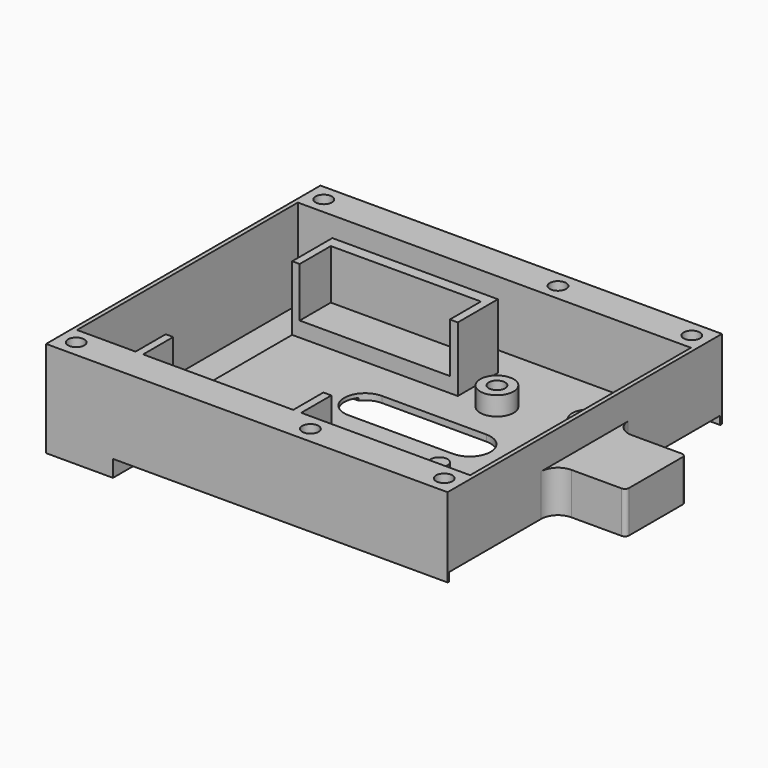
from build123d import *

# Parameters (mm, degrees)
PAD_DEPTH       = 41
POCKET_DEPTH    = 33
POCKET001_DEPTH = 1.5
SKETCH007_R     = 4
SKETCH007_R_2   = 1.95
SKETCH007_R_3   = 2
PAD005_DEPTH    = 6
SKETCH008_W     = 14
SKETCH008_H     = 10
POCKET002_DEPTH = 40
SKETCH013_R     = 1.95
POCKET003_DEPTH = 8
SKETCH018_W     = 39.6
SKETCH018_H     = 12
SKETCH018_H_2   = 9
PAD012_DEPTH    = 17
SKETCH019_W     = 35.9
SKETCH019_H     = 56.1
POCKET006_DEPTH = 11.9
SKETCH023_W     = 79.5
SKETCH023_H     = 6
POCKET007_DEPTH = 0.6
SKETCH024_W     = 80
SKETCH024_H     = 0.5
PAD016_DEPTH    = 2
PAD017_DEPTH    = 10
SKETCH026_W     = 8
SKETCH026_H     = 16
POCKET008_DEPTH = 16


with BuildPart() as part:
    # Sketch → Pad (new body, symmetric)
    with BuildSketch(Plane.XZ):
        Polygon((-48, 17), (-48, -6), (-32, -6), (-32, 0), (48, 0), (48, 17), align=None)
    extrude(amount=PAD_DEPTH, both=True)

    # Sketch001 → Pocket (cut, symmetric)
    with BuildSketch(Plane.XZ):
        Polygon((-33, 1.5), (47, 1.5), (47, 18.5), (-47, 18.5), (-47, -4.5), (-33, -4.5), align=None)
    extrude(amount=POCKET_DEPTH, both=True, mode=Mode.SUBTRACT)

    # Sketch004 → Pocket001 (cut)
    with BuildSketch(Plane.XY):
        with BuildLine():
            ThreePointArc((-4.5, 5), (-9.5, 0), (-4.5, -5))
            Line((-4.5, -5), (20.5, -5))
            ThreePointArc((20.5, -5), (25.5, 0), (20.5, 5))
            Line((20.5, 5), (-4.5, 5))
        make_face()
    extrude(amount=POCKET001_DEPTH, mode=Mode.SUBTRACT)

    # Sketch007 → Pad005 (join)
    with BuildSketch(Plane.XY):
        with Locations((15, 15)):
            Circle(SKETCH007_R)
        with Locations((15, 15)):
            Circle(SKETCH007_R_2, mode=Mode.SUBTRACT)
        with Locations((37, 15)):
            Circle(SKETCH007_R)
        with Locations((37, 15)):
            Circle(SKETCH007_R_2, mode=Mode.SUBTRACT)
        with Locations((26, -16)):
            Circle(SKETCH007_R_3)
    extrude(amount=PAD005_DEPTH)

    # Sketch008 → Pocket002 (cut, symmetric)
    with BuildSketch(Plane.XZ):
        with Locations((-40, 0.5)):
            Rectangle(SKETCH008_W, SKETCH008_H)
    extrude(amount=POCKET002_DEPTH, both=True, mode=Mode.SUBTRACT)

    # Sketch013 (on DatumPlane) → Pocket003 (cut)
    with BuildSketch(Plane.XY.offset(17)):
        with Locations((-44, 37)):
            Circle(SKETCH013_R)
        with Locations((12, 37)):
            Circle(SKETCH013_R)
        with Locations((44, 37)):
            Circle(SKETCH013_R)
        with Locations((44, -37)):
            Circle(SKETCH013_R)
        with Locations((12, -37)):
            Circle(SKETCH013_R)
        with Locations((-44, -37)):
            Circle(SKETCH013_R)
    extrude(amount=-POCKET003_DEPTH, mode=Mode.SUBTRACT)

    # Sketch018 → Pad012 (join)
    with BuildSketch(Plane.XY):
        with Locations((-13.2, 19.8)):
            Rectangle(SKETCH018_W, SKETCH018_H)
        with Locations((-13.2, -28.5)):
            Rectangle(SKETCH018_W, SKETCH018_H_2)
    extrude(amount=PAD012_DEPTH)

    # Sketch019 (on DatumPlane) → Pocket006 (cut)
    with BuildSketch(Plane.XY.offset(17)):
        with Locations((-13.25, -4.95)):
            Rectangle(SKETCH019_W, SKETCH019_H)
    extrude(amount=-POCKET006_DEPTH, mode=Mode.SUBTRACT)

    # Sketch023 → Pocket007 (cut)
    with BuildSketch(Plane.XY):
        with Locations((7.75, 0)):
            Rectangle(SKETCH023_W, SKETCH023_H)
    extrude(amount=POCKET007_DEPTH, mode=Mode.SUBTRACT)

    # Sketch024 → Pad016 (join)
    with BuildSketch(Plane.XY):
        with Locations((8, 40.75)):
            Rectangle(SKETCH024_W, SKETCH024_H)
        with Locations((8, -40.75)):
            Rectangle(SKETCH024_W, SKETCH024_H)
    extrude(amount=-PAD016_DEPTH)

    # Sketch025 → Pad017 (join)
    with BuildSketch(Plane.XY):
        with BuildLine():
            Line((48, 13), (48, -13))
            ThreePointArc((52, -9), (49.171573, -10.171573), (48, -13))
            Line((64, -9), (52, -9))
            ThreePointArc((64, -9), (64.707107, -8.707107), (65, -8))
            Line((65, 8), (65, -8))
            ThreePointArc((65, 8), (64.707107, 8.707107), (64, 9))
            Line((52, 9), (64, 9))
            ThreePointArc((48, 13), (49.171573, 10.171573), (52, 9))
        make_face()
    extrude(amount=PAD017_DEPTH)

    # Sketch026 (on Face12 of Pad017) → Pocket008 (cut)
    with BuildSketch(Plane(origin=(47, 0, 0), x_dir=(0, 0, -1), z_dir=(-1, 0, 0))):
        with Locations((-5.5, 0)):
            Rectangle(SKETCH026_W, SKETCH026_H)
    extrude(amount=-POCKET008_DEPTH, mode=Mode.SUBTRACT)


solid = part.part
